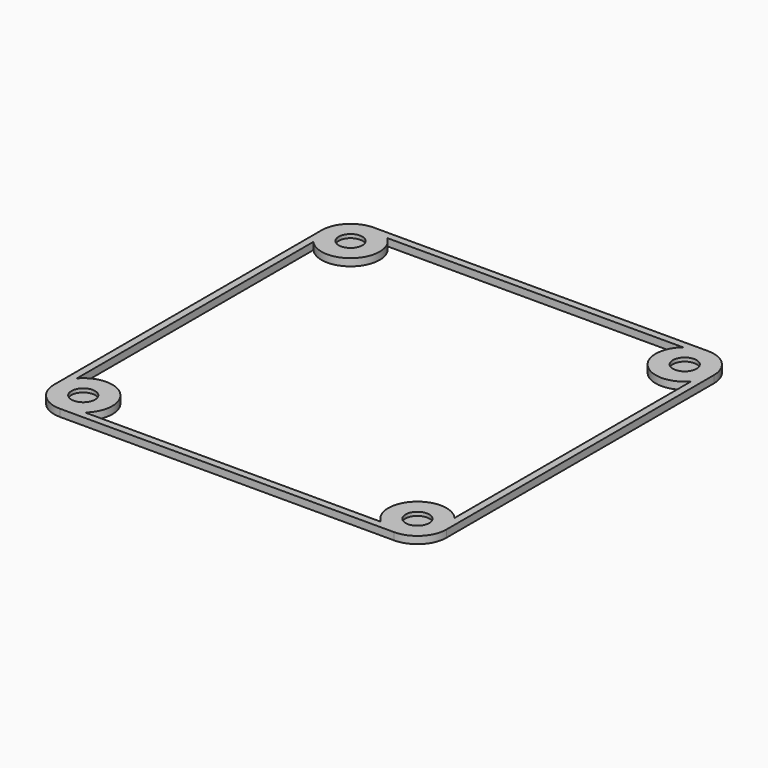
from build123d import *

# Parameters (mm, degrees)
SKETCH125_W     = 108
SKETCH125_H     = 108
PAD050_DEPTH    = 2
FILLET009_R     = 8
SKETCH126_R     = 3.25
POCKET049_DEPTH = 1
POCKET048_DEPTH = 2.001


with BuildPart() as part:
    # Sketch125 → Pad050 (new body)
    with BuildSketch(Plane.XY):
        with Locations((54, 54)):
            Rectangle(SKETCH125_W, SKETCH125_H)
    extrude(amount=PAD050_DEPTH)

    # Fillet009
    fillet009_edges = [part.edges().sort_by_distance(p)[0] for p in [
        (108, 0, 1),
        (108, 108, 1),
        (0, 108, 1),
        (0, 0, 1),
    ]]
    fillet(fillet009_edges, radius=FILLET009_R)

    # Sketch126 (on Face5 of Fillet009) → Pocket049 (cut)
    with BuildSketch(Plane.XY.offset(2)):
        with Locations((8, 8)):
            Circle(SKETCH126_R)
        with Locations((100, 8)):
            Circle(SKETCH126_R)
        with Locations((100, 100)):
            Circle(SKETCH126_R)
        with Locations((8, 100)):
            Circle(SKETCH126_R)
    extrude(amount=-POCKET049_DEPTH, mode=Mode.SUBTRACT)

    # Sketch127 (on Face5 of Pocket049) → Pocket048 (cut, through all)
    with BuildSketch(Plane.XY.offset(2)):
        with BuildLine():
            Line((2, 94.708497), (2, 13.291503))
            ThreePointArc((13.291503, 2), (13.655204, 13.655204), (2, 13.291503))
            Line((13.291503, 2), (94.708497, 2))
            ThreePointArc((106, 13.291503), (94.343146, 13.656854), (94.708497, 2))
            Line((106, 94.708497), (106, 13.291503))
            ThreePointArc((94.708497, 106), (94.342737, 94.342737), (106, 94.708497))
            Line((13.291503, 106), (94.708497, 106))
            ThreePointArc((2, 94.708497), (13.656854, 94.343146), (13.291503, 106))
        make_face()
    extrude(amount=-POCKET048_DEPTH, mode=Mode.SUBTRACT)


with BuildPart() as part_1:
    # Body022 placement: moved
    add(part.part.moved(Location((0, 0, 184))))


solid = part_1.part
